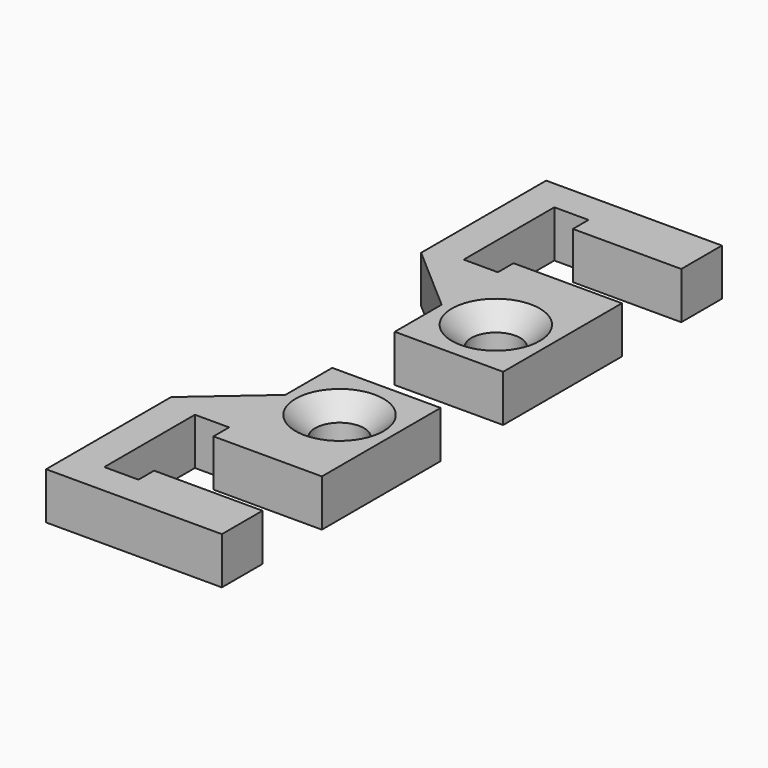
from build123d import *

# Parameters (mm, degrees)
F0_R     = 1.25
F1_DEPTH = 2.4
F2_SIZE  = 1


with BuildPart() as f1:
    # F0 (on Top) → F1 (new body)
    with BuildSketch(Plane.XY):
        Polygon((-2.775, -3), (2.775, -3), (2.775, 3), (2.775, 4.6), (-2.775, 4.6), (-2.775, 3.6), (-4.525, 3.6), (-4.525, 9.4), (-2.775, 9.4), (-2.775, 8.4), (2.775, 8.4), (2.775, 11), (-6.225, 11), (-6.225, 3), (-2.775, 0), align=None)
        Circle(F0_R, mode=Mode.SUBTRACT)
    extrude(amount=F1_DEPTH)

    # F2
    f2_edges = [f1.edges().sort_by_distance(p)[0] for p in [
        (-1.25, 0, 2.4),
    ]]
    chamfer(f2_edges, length=F2_SIZE)


with BuildPart() as f4_1:
    # F4: instance of F1
    add(f1.part.mirror(Plane.XZ.offset(5)))


solid = Compound([f1.part, f4_1.part])
